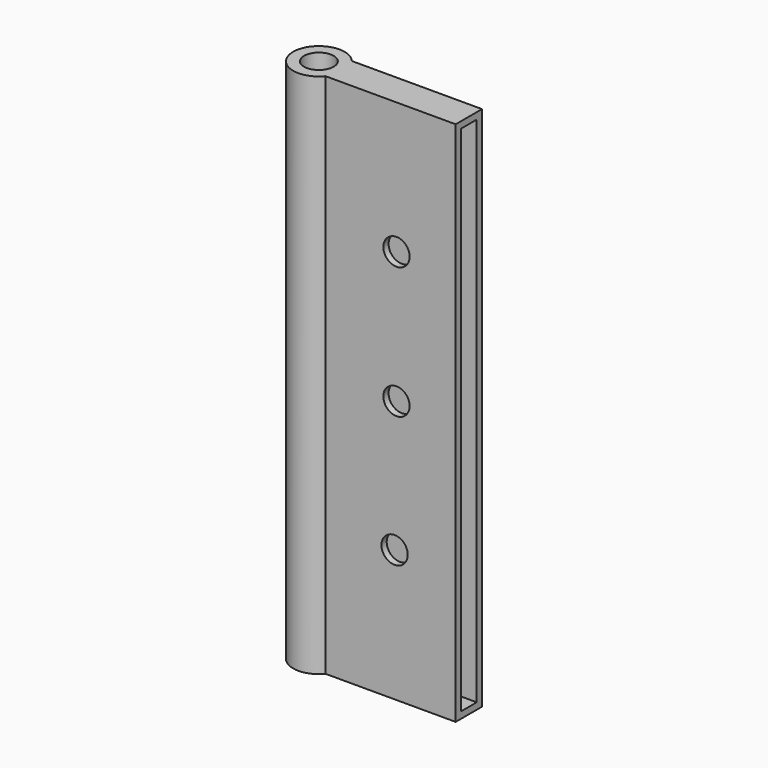
from build123d import *

# Parameters (mm, degrees)
F0_W     = 100
F0_H     = 400
F1_DEPTH = 25
F2_W     = 15
F2_H     = 390
F3_DEPTH = 90
F4_R     = 10
F5_DEPTH = 1000
F7_DEPTH = 400
F8_R     = 11.25
F9_DEPTH = 500


with BuildPart() as f1:
    # F0 (on Front) → F1 (new body)
    with BuildSketch(Plane.XZ):
        with Locations((-353.224424, -103.281556)):
            Rectangle(F0_W, F0_H)
    extrude(amount=F1_DEPTH)

    # F2 (on face) → F3 (cut)
    with BuildSketch(Plane.YZ.offset(-303.224424)):
        with Locations((-12.5, -103.281556)):
            Rectangle(F2_W, F2_H)
    extrude(amount=-F3_DEPTH, mode=Mode.SUBTRACT)

    # F4 (on face) → F5 (cut)
    with BuildSketch(Plane(origin=(0, 0, 0), x_dir=(-1, 0, 0), z_dir=(0, 1, 0))):
        with Locations((348.224424, -3.281556)):
            Circle(F4_R)
        with Locations((348.224424, -103.281556)):
            Circle(F4_R)
        with Locations((349.663308, -203.271204)):
            Circle(F4_R)
    extrude(amount=-F5_DEPTH, mode=Mode.SUBTRACT)

    # F6 (on face) → F7 (join)
    with BuildSketch(Plane.XY.offset(96.718444)):
        with BuildLine():
            Line((-403.224424, 0), (-402.187852, 0))
            ThreePointArc((-402.187852, 0), (-436.77333, -12.5), (-402.187852, -25))
            Line((-402.187852, -25), (-403.224424, -25))
            Line((-403.224424, -25), (-403.224424, 0))
        make_face()
        with BuildLine():
            ThreePointArc((-402.187852, -25), (-398.834163, -19.145684), (-397.67006, -12.5))
            ThreePointArc((-397.67006, -12.5), (-398.834163, -5.854316), (-402.187852, 0))
            Line((-402.187852, 0), (-403.224424, 0))
            Line((-403.224424, 0), (-403.224424, -25))
            Line((-403.224424, -25), (-402.187852, -25))
        make_face()
    extrude(amount=-F7_DEPTH)

    # F8 (on face) → F9 (cut)
    with BuildSketch(Plane.XY.offset(96.718444)):
        with Locations((-417.221695, -12.5)):
            Circle(F8_R)
    extrude(amount=-F9_DEPTH, mode=Mode.SUBTRACT)


solid = f1.part
